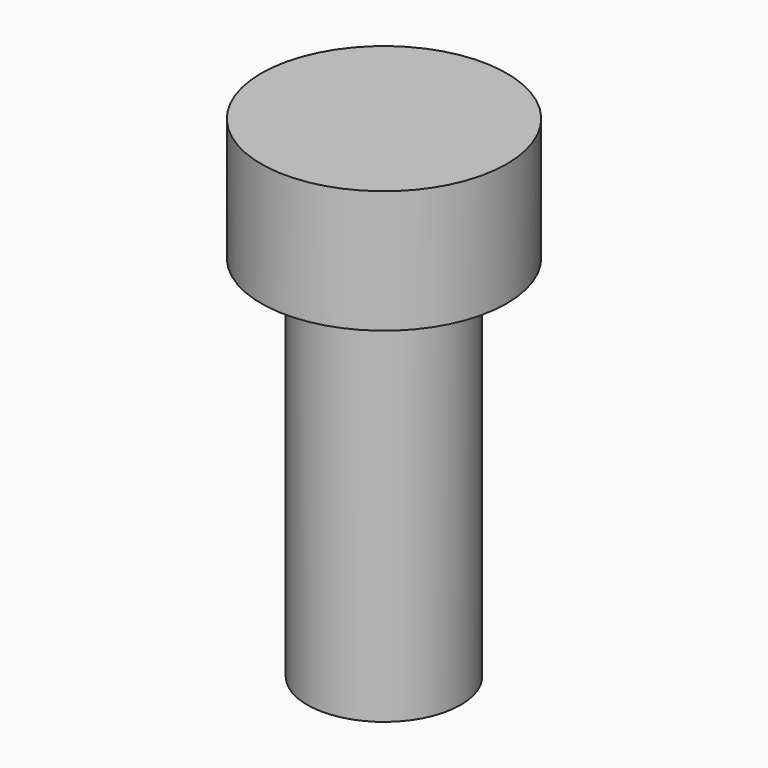
from build123d import *


with BuildPart() as part:
    # Sketch → Revolution (revolve)
    with BuildSketch(Plane.XZ):
        Polygon((0, 0), (2.5, 0), (2.5, 12), (4, 12), (4, 16), (0, 16), align=None)
    revolve(axis=Axis((0, 0, 0), (0, 0, 1)))


solid = part.part
